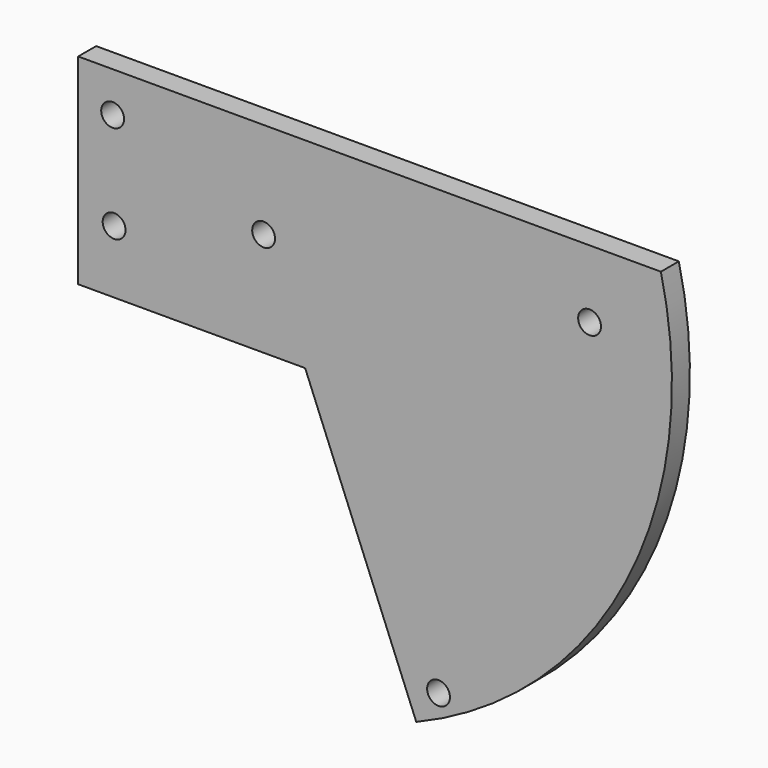
from build123d import *

# Parameters (mm, degrees)
F0_R     = 1.22
F1_DEPTH = 2.4


with BuildPart() as f1:
    # F0 (on Front) → F1 (new body)
    with BuildSketch(Plane.XZ):
        with BuildLine():
            Line((62.29, 21.44), (0, 21.44))
            Line((0, 21.44), (0, 0))
            Line((0, 0), (24.263217, 0))
            Line((24.263217, 0), (36.140737, -29.43386))
            ThreePointArc((36.140737, -29.43386), (58.601735, -8.82154), (62.29, 21.44))
        make_face()
        with Locations((38.522564, -25.937207)):
            Circle(F0_R, mode=Mode.SUBTRACT)
        with Locations((3.840634, 6.738324)):
            Circle(F0_R, mode=Mode.SUBTRACT)
        with Locations((3.680635, 17.136306)):
            Circle(F0_R, mode=Mode.SUBTRACT)
        with Locations((19.822557, 11.133424)):
            Circle(F0_R, mode=Mode.SUBTRACT)
        with Locations((54.667417, 14.196431)):
            Circle(F0_R, mode=Mode.SUBTRACT)
    extrude(amount=F1_DEPTH)


solid = f1.part
